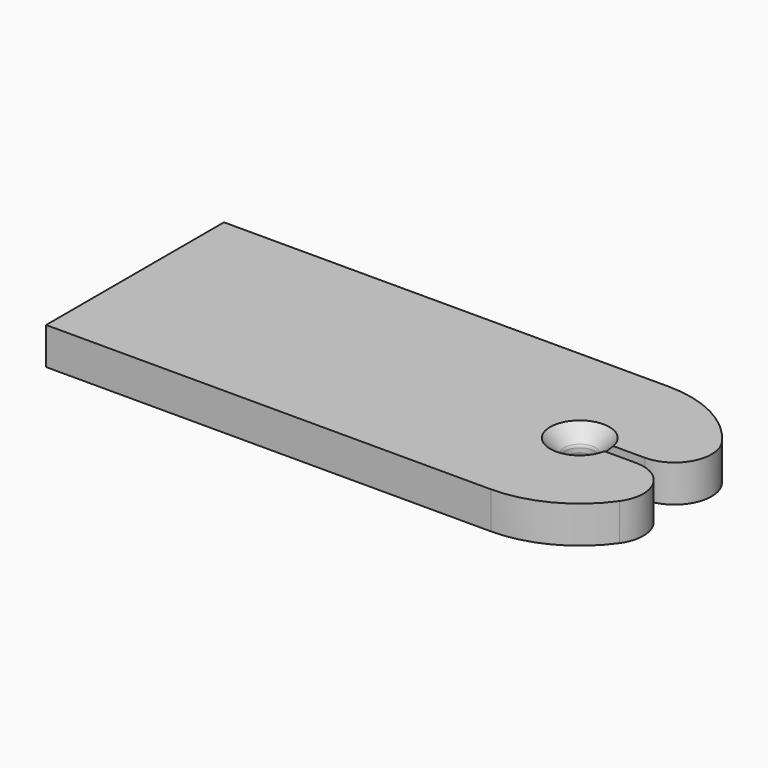
from build123d import *

# Parameters (mm, degrees)
F1_DEPTH = 5
F3_DEPTH = 5.001
F4_SIZE  = 2
F5_R     = 0.5
F6_R     = 5


with BuildPart() as f1:
    # F0 (on Top) → F1 (new body)
    with BuildSketch(Plane.XY):
        with BuildLine():
            Line((-26.7304610461, 15), (-26.7304610461, 0))
            Line((-26.7304610461, 0), (-26.7304610461, -15))
            Line((-26.7304610461, -15), (33.2695389539, -15))
            ThreePointArc((33.2695389539, -15), (48.2695389539, 0), (33.2695389539, 15))
            Line((33.2695389539, 15), (-26.7304610461, 15))
        make_face()
    extrude(amount=F1_DEPTH)

    # F2 (on face) → F3 (cut, through all)
    with BuildSketch(Plane.XY.offset(5)):
        with BuildLine():
            Line((35.1235885757, -0.75), (48.2507772205, -0.75))
            ThreePointArc((48.2507772205, -0.75), (48.2695389539, 0), (48.2507772205, 0.75))
            Line((48.2507772205, 0.75), (35.1235885757, 0.75))
            ThreePointArc((35.1235885757, 0.75), (35.2327123089, 0.3820345249), (35.2695389539, 0))
            ThreePointArc((35.2695389539, 0), (35.2327123089, -0.3820345249), (35.1235885757, -0.75))
        make_face()
        with BuildLine():
            ThreePointArc((35.1235885757, 0.75), (31.2695389539, 0), (35.1235885757, -0.75))
            Line((35.1235885757, -0.75), (33.2695389539, -0.75))
            Line((33.2695389539, -0.75), (33.2695389539, 0.75))
            Line((33.2695389539, 0.75), (35.1235885757, 0.75))
        make_face()
        with BuildLine():
            Line((33.2695389539, -0.75), (35.1235885757, -0.75))
            ThreePointArc((35.1235885757, -0.75), (35.2327123089, -0.3820345249), (35.2695389539, 0))
            ThreePointArc((35.2695389539, 0), (35.2327123089, 0.3820345249), (35.1235885757, 0.75))
            Line((35.1235885757, 0.75), (33.2695389539, 0.75))
            Line((33.2695389539, 0.75), (33.2695389539, -0.75))
        make_face()
    extrude(amount=-F3_DEPTH, mode=Mode.SUBTRACT)

    # F4
    f4_edges = [f1.edges().sort_by_distance(p)[0] for p in [
        (31.269539, 0, 5),
        (31.269539, 0, 0),
    ]]
    chamfer(f4_edges, length=F4_SIZE)

    # F5
    f5_edges = [f1.edges().sort_by_distance(p)[0] for p in [
        (31.269539, 0, 3),
        (31.269539, 0, 2),
    ]]
    fillet(f5_edges, radius=F5_R)

    # F6
    f6_edges = [f1.edges().sort_by_distance(p)[0] for p in [
        (48.250777, 0.75, 2.5),
        (48.250777, -0.75, 2.5),
    ]]
    fillet(f6_edges, radius=F6_R)


solid = f1.part
